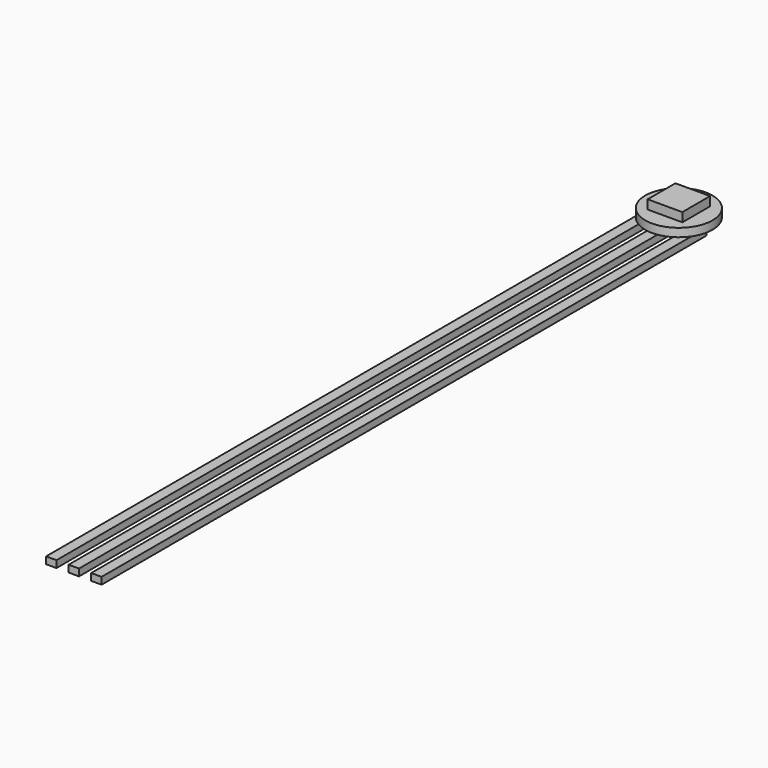
from build123d import *

# Parameters (mm, degrees)
CYLINDER003_R     = 4.85
CYLINDER003_DEPTH = 1.2
SKETCH037_W       = 1.5
SKETCH037_H       = 109
PAD020_DEPTH      = 1
BOX001_W          = 5
BOX001_H          = 5
BOX001_DEPTH      = 1.5


with BuildPart() as part:
    # Cylinder003 → Cylinder003 (join)
    with BuildSketch(Plane(origin=(0, 54.5, 0), x_dir=(1, 0, 0), z_dir=(0, 0, 1))):
        Circle(CYLINDER003_R)
    extrude(amount=CYLINDER003_DEPTH)

    # Sketch037 → Pad020 (join)
    with BuildSketch(Plane.XY):
        with Locations((-3.25, 0)):
            Rectangle(SKETCH037_W, SKETCH037_H)
        with Locations((3.25, 0)):
            Rectangle(SKETCH037_W, SKETCH037_H)
        Rectangle(SKETCH037_W, SKETCH037_H)
    extrude(amount=-PAD020_DEPTH)

    # Box001 → Box001 (join)
    with BuildSketch(Plane(origin=(-2.5, 52, 1), x_dir=(1, 0, 0), z_dir=(0, 0, 1))):
        with Locations((2.5, 2.5)):
            Rectangle(BOX001_W, BOX001_H)
    extrude(amount=BOX001_DEPTH)


with BuildPart() as part_1:
    # Body019 placement: moved
    add(part.part.moved(Location((-62, 0, 0))))


solid = part_1.part
